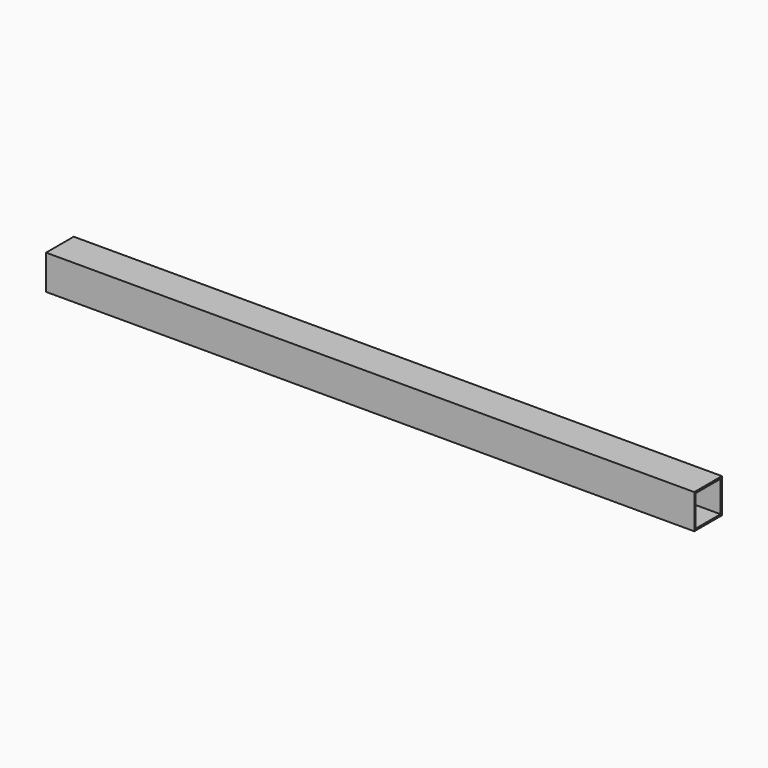
from build123d import *

# Parameters (mm, degrees)
F0_W     = 750
F0_H     = 40
F1_DEPTH = 40
F2_T     = -2


with BuildPart() as f1:
    # F0 (on Front) → F1 (new body)
    with BuildSketch(Plane.XZ):
        with Locations((-301.079467, 15.761889)):
            Rectangle(F0_W, F0_H)
    extrude(amount=F1_DEPTH)

    # F2
    f2_openings = [f1.faces().sort_by_distance(p)[0] for p in [
        (-676.079467, -20, 15.761889),
        (73.920533, -20, 15.761889),
    ]]
    offset(amount=F2_T, openings=f2_openings)


solid = f1.part
